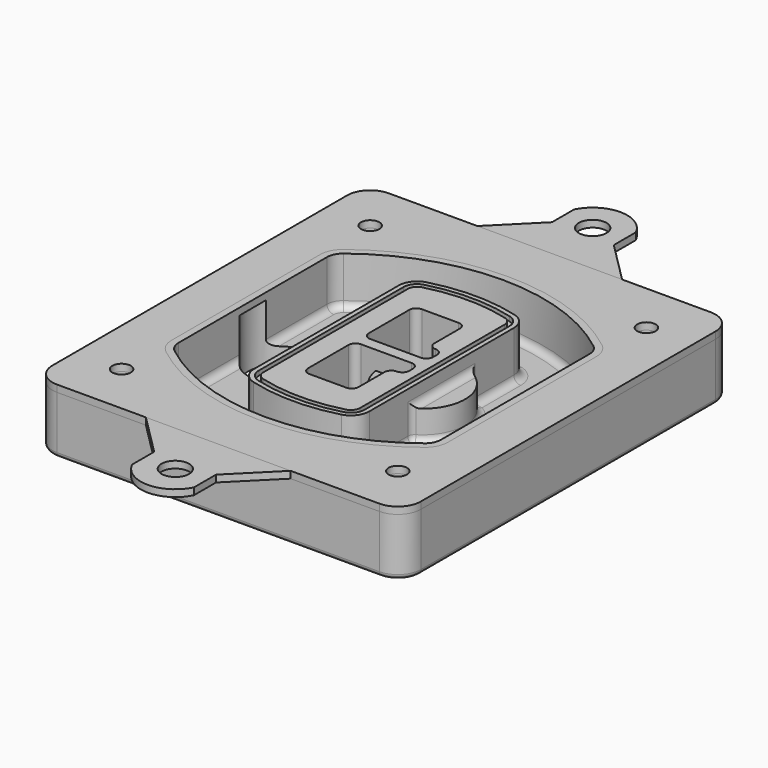
from build123d import *

# Parameters (mm, degrees)
F0_R      = 4
F1_DEPTH  = 25
F2_DEPTH  = 3
F3_DEPTH  = 18
F5_DEPTH  = 21
F6_DEPTH  = 2
F8_DEPTH  = 20
F9_DEPTH  = 16
F10_DEPTH = 25
F7_R      = 6
F7_R_2    = 4
F11_DEPTH = 6
F13_DEPTH = 9
F14_R     = 3
F15_R     = 2
F16_R     = 6
F17_DEPTH = 3
F18_DEPTH = 3


with BuildPart() as f1:
    # F0 (on Top) → F1 (new body)
    with BuildSketch(Plane.XY):
        with BuildLine():
            ThreePointArc((-80, -80), (-77.0710678119, -87.0710678119), (-70, -90))
            Line((-70, -90), (70, -90))
            ThreePointArc((70, -90), (77.0710678119, -87.0710678119), (80, -80))
            Line((80, -80), (80, 80))
            ThreePointArc((80, 80), (77.0710678119, 87.0710678119), (70, 90))
            Line((70, 90), (-70, 90))
            ThreePointArc((-70, 90), (-77.0710678119, 87.0710678119), (-80, 80))
            Line((-80, 80), (-80, -80))
        make_face()
        with Locations((-60, -67.5)):
            Circle(F0_R, mode=Mode.SUBTRACT)
        with Locations((60, -67.5)):
            Circle(F0_R, mode=Mode.SUBTRACT)
        with Locations((-60, 67.5)):
            Circle(F0_R, mode=Mode.SUBTRACT)
        with BuildLine():
            ThreePointArc((-64, 40.2934422872), (-62.5820384798, 46.4328484224), (-58.6153846154, 51.3286200352))
            ThreePointArc((-58.6153846154, 51.3286200352), (0, 71.5), (58.6153846154, 51.3286200352))
            ThreePointArc((58.6153846154, 51.3286200352), (62.5820384798, 46.4328484224), (64, 40.2934422872))
            Line((64, 40.2934422872), (64, -40.2934422872))
            ThreePointArc((64, -40.2934422872), (62.5820384798, -46.4328484224), (58.6153846154, -51.3286200352))
            ThreePointArc((58.6153846154, -51.3286200352), (0, -71.5), (-58.6153846154, -51.3286200352))
            ThreePointArc((-58.6153846154, -51.3286200352), (-62.5820384798, -46.4328484224), (-64, -40.2934422872))
            Line((-64, -40.2934422872), (-64, 40.2934422872))
        make_face(mode=Mode.SUBTRACT)
        with Locations((60, 67.5)):
            Circle(F0_R, mode=Mode.SUBTRACT)
        with BuildLine():
            ThreePointArc((58.6153846154, 51.3286200352), (0, 71.5), (-58.6153846154, 51.3286200352))
            ThreePointArc((-58.6153846154, 51.3286200352), (-62.5820384798, 46.4328484224), (-64, 40.2934422872))
            Line((-64, 40.2934422872), (-64, -40.2934422872))
            ThreePointArc((-64, -40.2934422872), (-62.5820384798, -46.4328484224), (-58.6153846154, -51.3286200352))
            ThreePointArc((-58.6153846154, -51.3286200352), (0, -71.5), (58.6153846154, -51.3286200352))
            ThreePointArc((58.6153846154, -51.3286200352), (62.5820384798, -46.4328484224), (64, -40.2934422872))
            Line((64, -40.2934422872), (64, 40.2934422872))
            ThreePointArc((64, 40.2934422872), (62.5820384798, 46.4328484224), (58.6153846154, 51.3286200352))
        make_face()
        with BuildLine():
            Line((-60, -40.2934422872), (-60, 40.2934422872))
            ThreePointArc((-60, 40.2934422872), (-58.9871703427, 44.6787323838), (-56.1538461538, 48.1757121072))
            ThreePointArc((-56.1538461538, 48.1757121072), (0, 67.5), (56.1538461538, 48.1757121072))
            ThreePointArc((56.1538461538, 48.1757121072), (58.9871703427, 44.6787323838), (60, 40.2934422872))
            Line((60, 40.2934422872), (60, -40.2934422872))
            ThreePointArc((60, -40.2934422872), (58.9871703427, -44.6787323838), (56.1538461538, -48.1757121072))
            ThreePointArc((56.1538461538, -48.1757121072), (0, -67.5), (-56.1538461538, -48.1757121072))
            ThreePointArc((-56.1538461538, -48.1757121072), (-58.9871703427, -44.6787323838), (-60, -40.2934422872))
        make_face(mode=Mode.SUBTRACT)
        with BuildLine():
            ThreePointArc((-56.1538461538, 48.1757121072), (-58.9871703427, 44.6787323838), (-60, 40.2934422872))
            Line((-60, 40.2934422872), (-60, -40.2934422872))
            ThreePointArc((-60, -40.2934422872), (-58.9871703427, -44.6787323838), (-56.1538461538, -48.1757121072))
            ThreePointArc((-56.1538461538, -48.1757121072), (0, -67.5), (56.1538461538, -48.1757121072))
            ThreePointArc((56.1538461538, -48.1757121072), (58.9871703427, -44.6787323838), (60, -40.2934422872))
            Line((60, -40.2934422872), (60, 40.2934422872))
            ThreePointArc((60, 40.2934422872), (58.9871703427, 44.6787323838), (56.1538461538, 48.1757121072))
            ThreePointArc((56.1538461538, 48.1757121072), (0, 67.5), (-56.1538461538, 48.1757121072))
        make_face()
        with BuildLine():
            ThreePointArc((54.3076923077, 45.8110311612), (56.2910192399, 43.3631453548), (57, 40.2934422872))
            Line((57, 40.2934422872), (57, -40.2934422872))
            ThreePointArc((57, -40.2934422872), (56.2910192399, -43.3631453548), (54.3076923077, -45.8110311612))
            ThreePointArc((54.3076923077, -45.8110311612), (0, -64.5), (-54.3076923077, -45.8110311612))
            ThreePointArc((-54.3076923077, -45.8110311612), (-56.2910192399, -43.3631453548), (-57, -40.2934422872))
            Line((-57, -40.2934422872), (-57, 40.2934422872))
            ThreePointArc((-57, 40.2934422872), (-56.2910192399, 43.3631453548), (-54.3076923077, 45.8110311612))
            ThreePointArc((-54.3076923077, 45.8110311612), (0, 64.5), (54.3076923077, 45.8110311612))
        make_face(mode=Mode.SUBTRACT)
        with BuildLine():
            Line((57, -40.2934422872), (57, 40.2934422872))
            ThreePointArc((57, 40.2934422872), (56.2910192399, 43.3631453548), (54.3076923077, 45.8110311612))
            ThreePointArc((54.3076923077, 45.8110311612), (0, 64.5), (-54.3076923077, 45.8110311612))
            ThreePointArc((-54.3076923077, 45.8110311612), (-56.2910192399, 43.3631453548), (-57, 40.2934422872))
            Line((-57, 40.2934422872), (-57, -40.2934422872))
            ThreePointArc((-57, -40.2934422872), (-56.2910192399, -43.3631453548), (-54.3076923077, -45.8110311612))
            ThreePointArc((-54.3076923077, -45.8110311612), (0, -64.5), (54.3076923077, -45.8110311612))
            ThreePointArc((54.3076923077, -45.8110311612), (56.2910192399, -43.3631453548), (57, -40.2934422872))
        make_face()
    extrude(amount=-F1_DEPTH)

    # F0 (on Top) → F2 (join)
    with BuildSketch(Plane.XY):
        with BuildLine():
            ThreePointArc((-56.1538461538, 48.1757121072), (-58.9871703427, 44.6787323838), (-60, 40.2934422872))
            Line((-60, 40.2934422872), (-60, -40.2934422872))
            ThreePointArc((-60, -40.2934422872), (-58.9871703427, -44.6787323838), (-56.1538461538, -48.1757121072))
            ThreePointArc((-56.1538461538, -48.1757121072), (0, -67.5), (56.1538461538, -48.1757121072))
            ThreePointArc((56.1538461538, -48.1757121072), (58.9871703427, -44.6787323838), (60, -40.2934422872))
            Line((60, -40.2934422872), (60, 40.2934422872))
            ThreePointArc((60, 40.2934422872), (58.9871703427, 44.6787323838), (56.1538461538, 48.1757121072))
            ThreePointArc((56.1538461538, 48.1757121072), (0, 67.5), (-56.1538461538, 48.1757121072))
        make_face()
        with BuildLine():
            ThreePointArc((54.3076923077, 45.8110311612), (56.2910192399, 43.3631453548), (57, 40.2934422872))
            Line((57, 40.2934422872), (57, -40.2934422872))
            ThreePointArc((57, -40.2934422872), (56.2910192399, -43.3631453548), (54.3076923077, -45.8110311612))
            ThreePointArc((54.3076923077, -45.8110311612), (0, -64.5), (-54.3076923077, -45.8110311612))
            ThreePointArc((-54.3076923077, -45.8110311612), (-56.2910192399, -43.3631453548), (-57, -40.2934422872))
            Line((-57, -40.2934422872), (-57, 40.2934422872))
            ThreePointArc((-57, 40.2934422872), (-56.2910192399, 43.3631453548), (-54.3076923077, 45.8110311612))
            ThreePointArc((-54.3076923077, 45.8110311612), (0, 64.5), (54.3076923077, 45.8110311612))
        make_face(mode=Mode.SUBTRACT)
    extrude(amount=F2_DEPTH)

    # F0 (on Top) → F3 (cut)
    with BuildSketch(Plane.XY):
        with BuildLine():
            Line((57, -40.2934422872), (57, 40.2934422872))
            ThreePointArc((57, 40.2934422872), (56.2910192399, 43.3631453548), (54.3076923077, 45.8110311612))
            ThreePointArc((54.3076923077, 45.8110311612), (0, 64.5), (-54.3076923077, 45.8110311612))
            ThreePointArc((-54.3076923077, 45.8110311612), (-56.2910192399, 43.3631453548), (-57, 40.2934422872))
            Line((-57, 40.2934422872), (-57, -40.2934422872))
            ThreePointArc((-57, -40.2934422872), (-56.2910192399, -43.3631453548), (-54.3076923077, -45.8110311612))
            ThreePointArc((-54.3076923077, -45.8110311612), (0, -64.5), (54.3076923077, -45.8110311612))
            ThreePointArc((54.3076923077, -45.8110311612), (56.2910192399, -43.3631453548), (57, -40.2934422872))
        make_face()
    extrude(amount=-F3_DEPTH, mode=Mode.SUBTRACT)

    # F4 (on face) → F5 (join, through all)
    with BuildSketch(Plane.XY.offset(3)):
        with BuildLine():
            ThreePointArc((-25, -39.2465276821), (-23.3511545998, -44.1109737193), (-19.0842911877, -46.9702398883))
            ThreePointArc((-19.0842911877, -46.9702398883), (0, -49.5), (19.0842911877, -46.9702398883))
            ThreePointArc((19.0842911877, -46.9702398883), (23.3511545998, -44.1109737193), (25, -39.2465276821))
            Line((25, -39.2465276821), (25, 39.2465276821))
            ThreePointArc((25, 39.2465276821), (23.3511545998, 44.1109737193), (19.0842911877, 46.9702398883))
            ThreePointArc((19.0842911877, 46.9702398883), (0, 49.5), (-19.0842911877, 46.9702398883))
            ThreePointArc((-19.0842911877, 46.9702398883), (-23.3511545998, 44.1109737193), (-25, 39.2465276821))
            Line((-25, 39.2465276821), (-25, -39.2465276821))
        make_face()
        with BuildLine():
            ThreePointArc((18.5632183908, 45.0393118368), (21.7633659499, 42.89486221), (23, 39.2465276821))
            Line((23, 39.2465276821), (23, -39.2465276821))
            ThreePointArc((23, -39.2465276821), (21.7633659499, -42.89486221), (18.5632183908, -45.0393118368))
            ThreePointArc((18.5632183908, -45.0393118368), (0, -47.5), (-18.5632183908, -45.0393118368))
            ThreePointArc((-18.5632183908, -45.0393118368), (-21.7633659499, -42.89486221), (-23, -39.2465276821))
            Line((-23, -39.2465276821), (-23, 39.2465276821))
            ThreePointArc((-23, 39.2465276821), (-21.7633659499, 42.89486221), (-18.5632183908, 45.0393118368))
            ThreePointArc((-18.5632183908, 45.0393118368), (0, 47.5), (18.5632183908, 45.0393118368))
        make_face(mode=Mode.SUBTRACT)
        with BuildLine():
            Line((23, -39.2465276821), (23, 39.2465276821))
            ThreePointArc((23, 39.2465276821), (21.7633659499, 42.89486221), (18.5632183908, 45.0393118368))
            ThreePointArc((18.5632183908, 45.0393118368), (0, 47.5), (-18.5632183908, 45.0393118368))
            ThreePointArc((-18.5632183908, 45.0393118368), (-21.7633659499, 42.89486221), (-23, 39.2465276821))
            Line((-23, 39.2465276821), (-23, -39.2465276821))
            ThreePointArc((-23, -39.2465276821), (-21.7633659499, -42.89486221), (-18.5632183908, -45.0393118368))
            ThreePointArc((-18.5632183908, -45.0393118368), (0, -47.5), (18.5632183908, -45.0393118368))
            ThreePointArc((18.5632183908, -45.0393118368), (21.7633659499, -42.89486221), (23, -39.2465276821))
        make_face()
        with BuildLine():
            ThreePointArc((18.0421455939, 43.1083837852), (20.1755772999, 41.6787507007), (21, 39.2465276821))
            Line((21, 39.2465276821), (21, -39.2465276821))
            ThreePointArc((21, -39.2465276821), (20.1755772999, -41.6787507007), (18.0421455939, -43.1083837852))
            ThreePointArc((18.0421455939, -43.1083837852), (0, -45.5), (-18.0421455939, -43.1083837852))
            ThreePointArc((-18.0421455939, -43.1083837852), (-20.1755772999, -41.6787507007), (-21, -39.2465276821))
            Line((-21, -39.2465276821), (-21, 39.2465276821))
            ThreePointArc((-21, 39.2465276821), (-20.1755772999, 41.6787507007), (-18.0421455939, 43.1083837852))
            ThreePointArc((-18.0421455939, 43.1083837852), (0, 45.5), (18.0421455939, 43.1083837852))
        make_face(mode=Mode.SUBTRACT)
        with BuildLine():
            Line((21, -39.2465276821), (21, 39.2465276821))
            ThreePointArc((21, 39.2465276821), (20.1755772999, 41.6787507007), (18.0421455939, 43.1083837852))
            ThreePointArc((18.0421455939, 43.1083837852), (0, 45.5), (-18.0421455939, 43.1083837852))
            ThreePointArc((-18.0421455939, 43.1083837852), (-20.1755772999, 41.6787507007), (-21, 39.2465276821))
            Line((-21, 39.2465276821), (-21, -39.2465276821))
            ThreePointArc((-21, -39.2465276821), (-20.1755772999, -41.6787507007), (-18.0421455939, -43.1083837852))
            ThreePointArc((-18.0421455939, -43.1083837852), (0, -45.5), (18.0421455939, -43.1083837852))
            ThreePointArc((18.0421455939, -43.1083837852), (20.1755772999, -41.6787507007), (21, -39.2465276821))
        make_face()
        with BuildLine():
            Line((-8, -2.5), (14, -2.5))
            ThreePointArc((14, -2.5), (16.1213203436, -3.3786796564), (17, -5.5))
            Line((17, -5.5), (17, -7.5))
            ThreePointArc((17, -7.5), (16.1213203436, -9.6213203436), (14, -10.5))
            ThreePointArc((14, -10.5), (11.8786796564, -11.3786796564), (11, -13.5))
            Line((11, -13.5), (11, -27.5))
            ThreePointArc((11, -27.5), (10.1213203436, -29.6213203436), (8, -30.5))
            Line((8, -30.5), (-8, -30.5))
            ThreePointArc((-8, -30.5), (-10.1213203436, -29.6213203436), (-11, -27.5))
            Line((-11, -27.5), (-11, -5.5))
            ThreePointArc((-11, -5.5), (-10.1213203436, -3.3786796564), (-8, -2.5))
        make_face(mode=Mode.SUBTRACT)
        with BuildLine():
            ThreePointArc((-8, 2.5), (-10.1213203436, 3.3786796564), (-11, 5.5))
            Line((-11, 5.5), (-11, 27.5))
            ThreePointArc((-11, 27.5), (-10.1213203436, 29.6213203436), (-8, 30.5))
            Line((-8, 30.5), (8, 30.5))
            ThreePointArc((8, 30.5), (10.1213203436, 29.6213203436), (11, 27.5))
            Line((11, 27.5), (11, 13.5))
            ThreePointArc((11, 13.5), (11.8786796564, 11.3786796564), (14, 10.5))
            ThreePointArc((14, 10.5), (16.1213203436, 9.6213203436), (17, 7.5))
            Line((17, 7.5), (17, 5.5))
            ThreePointArc((17, 5.5), (16.1213203436, 3.3786796564), (14, 2.5))
            Line((14, 2.5), (-8, 2.5))
        make_face(mode=Mode.SUBTRACT)
    extrude(amount=-F5_DEPTH)

    # F4 (on face) → F6 (cut)
    with BuildSketch(Plane.XY.offset(3)):
        with BuildLine():
            Line((23, -39.2465276821), (23, 39.2465276821))
            ThreePointArc((23, 39.2465276821), (21.7633659499, 42.89486221), (18.5632183908, 45.0393118368))
            ThreePointArc((18.5632183908, 45.0393118368), (0, 47.5), (-18.5632183908, 45.0393118368))
            ThreePointArc((-18.5632183908, 45.0393118368), (-21.7633659499, 42.89486221), (-23, 39.2465276821))
            Line((-23, 39.2465276821), (-23, -39.2465276821))
            ThreePointArc((-23, -39.2465276821), (-21.7633659499, -42.89486221), (-18.5632183908, -45.0393118368))
            ThreePointArc((-18.5632183908, -45.0393118368), (0, -47.5), (18.5632183908, -45.0393118368))
            ThreePointArc((18.5632183908, -45.0393118368), (21.7633659499, -42.89486221), (23, -39.2465276821))
        make_face()
        with BuildLine():
            ThreePointArc((18.0421455939, 43.1083837852), (20.1755772999, 41.6787507007), (21, 39.2465276821))
            Line((21, 39.2465276821), (21, -39.2465276821))
            ThreePointArc((21, -39.2465276821), (20.1755772999, -41.6787507007), (18.0421455939, -43.1083837852))
            ThreePointArc((18.0421455939, -43.1083837852), (0, -45.5), (-18.0421455939, -43.1083837852))
            ThreePointArc((-18.0421455939, -43.1083837852), (-20.1755772999, -41.6787507007), (-21, -39.2465276821))
            Line((-21, -39.2465276821), (-21, 39.2465276821))
            ThreePointArc((-21, 39.2465276821), (-20.1755772999, 41.6787507007), (-18.0421455939, 43.1083837852))
            ThreePointArc((-18.0421455939, 43.1083837852), (0, 45.5), (18.0421455939, 43.1083837852))
        make_face(mode=Mode.SUBTRACT)
    extrude(amount=-F6_DEPTH, mode=Mode.SUBTRACT)

    # F7 (on face) → F8 (join)
    with BuildSketch(Plane(origin=(0, 0, -25), x_dir=(1, 0, 0), z_dir=(0, 0, -1))):
        with BuildLine():
            ThreePointArc((3.28842436, 0), (16.7567035675, 13.4682792075), (30.224982775, 0))
            Line((30.224982775, 0), (35.224982775, 0))
            ThreePointArc((35.224982775, 0), (16.7567035675, 18.4682792075), (-1.71157564, 0))
            Line((-1.71157564, 0), (3.28842436, 0))
        make_face()
        with BuildLine():
            Line((3.28842436, 0), (30.224982775, 0))
            ThreePointArc((30.224982775, 0), (16.7567035675, 13.4682792075), (3.28842436, 0))
        make_face()
        with BuildLine():
            ThreePointArc((3.28842436, 0), (16.7567035675, -13.4682792075), (30.224982775, 0))
            Line((30.224982775, 0), (3.28842436, 0))
        make_face()
        with BuildLine():
            Line((35.224982775, 0), (30.224982775, 0))
            ThreePointArc((30.224982775, 0), (16.7567035675, -13.4682792075), (3.28842436, 0))
            Line((3.28842436, 0), (-1.71157564, 0))
            ThreePointArc((-1.71157564, 0), (16.7567035675, -18.4682792075), (35.224982775, 0))
        make_face()
    extrude(amount=-F8_DEPTH)

    # F7 (on face) → F9 (cut)
    with BuildSketch(Plane(origin=(0, 0, -25), x_dir=(1, 0, 0), z_dir=(0, 0, -1))):
        with BuildLine():
            Line((3.28842436, 0), (30.224982775, 0))
            ThreePointArc((30.224982775, 0), (16.7567035675, 13.4682792075), (3.28842436, 0))
        make_face()
        with BuildLine():
            ThreePointArc((3.28842436, 0), (16.7567035675, -13.4682792075), (30.224982775, 0))
            Line((30.224982775, 0), (3.28842436, 0))
        make_face()
    extrude(amount=-F9_DEPTH, mode=Mode.SUBTRACT)

    # F7 (on face) → F10 (cut)
    with BuildSketch(Plane(origin=(0, 0, -25), x_dir=(1, 0, 0), z_dir=(0, 0, -1))):
        with BuildLine():
            Line((-59.0318229325, 0), (-32.0952645175, 0))
            ThreePointArc((-32.0952645175, 0), (-45.563543725, 13.4682792075), (-59.0318229325, 0))
        make_face()
        with BuildLine():
            ThreePointArc((-59.0318229325, 0), (-45.563543725, -13.4682792075), (-32.0952645175, 0))
            Line((-32.0952645175, 0), (-59.0318229325, 0))
        make_face()
    extrude(amount=-F10_DEPTH, mode=Mode.SUBTRACT)

    # F7 (on face) → F11 (cut)
    with BuildSketch(Plane(origin=(0, 0, -25), x_dir=(1, 0, 0), z_dir=(0, 0, -1))):
        with Locations((60, -67.5)):
            Circle(F7_R)
        with Locations((60, -67.5)):
            Circle(F7_R_2, mode=Mode.SUBTRACT)
        with Locations((60, -67.5)):
            Circle(F7_R)
        with Locations((60, -67.5)):
            Circle(F7_R_2, mode=Mode.SUBTRACT)
        with Locations((-60, -67.5)):
            Circle(F7_R)
        with Locations((-60, -67.5)):
            Circle(F7_R_2, mode=Mode.SUBTRACT)
        with Locations((-60, -67.5)):
            Circle(F7_R)
        with Locations((-60, -67.5)):
            Circle(F7_R_2, mode=Mode.SUBTRACT)
        with Locations((-60, 67.5)):
            Circle(F7_R)
        with Locations((-60, 67.5)):
            Circle(F7_R_2, mode=Mode.SUBTRACT)
        with Locations((-60, 67.5)):
            Circle(F7_R)
        with Locations((-60, 67.5)):
            Circle(F7_R_2, mode=Mode.SUBTRACT)
        with Locations((60, 67.5)):
            Circle(F7_R)
        with Locations((60, 67.5)):
            Circle(F7_R_2, mode=Mode.SUBTRACT)
        with Locations((60, 67.5)):
            Circle(F7_R)
        with Locations((60, 67.5)):
            Circle(F7_R_2, mode=Mode.SUBTRACT)
    extrude(amount=-F11_DEPTH, mode=Mode.SUBTRACT)

    # F12 (on face) → F13 (cut, through all)
    with BuildSketch(Plane(origin=(0, 0, -9), x_dir=(1, 0, 0), z_dir=(0, 0, -1))):
        with BuildLine():
            Line((11, 13.5), (11, 17.5481537753))
            ThreePointArc((11, 17.5481537753), (2.5696536419, 11.8239143813), (-1.5415842455, 2.5))
            Line((-1.5415842455, 2.5), (3.5224848595, 2.5))
            ThreePointArc((3.5224848595, 2.5), (6.1857188154, 8.3455872281), (11.2536447004, 12.2927168648))
            ThreePointArc((11.2536447004, 12.2927168648), (11.0640958889, 12.8831798879), (11, 13.5))
        make_face()
        with BuildLine():
            ThreePointArc((11.2536447004, -12.2927168648), (6.1857188154, -8.3455872281), (3.5224848595, -2.5))
            Line((3.5224848595, -2.5), (-1.5415842455, -2.5))
            ThreePointArc((-1.5415842455, -2.5), (2.5696536419, -11.8239143813), (11, -17.5481537753))
            Line((11, -17.5481537753), (11, -13.5))
            ThreePointArc((11, -13.5), (11.0640958889, -12.8831798879), (11.2536447004, -12.2927168648))
        make_face()
        with BuildLine():
            ThreePointArc((11.2536447004, 12.2927168648), (6.1857188154, 8.3455872281), (3.5224848595, 2.5))
            Line((3.5224848595, 2.5), (14, 2.5))
            ThreePointArc((14, 2.5), (16.1213203436, 3.3786796564), (17, 5.5))
            Line((17, 5.5), (17, 7.5))
            ThreePointArc((17, 7.5), (16.1213203436, 9.6213203436), (14, 10.5))
            ThreePointArc((14, 10.5), (12.3601599782, 10.9878446101), (11.2536447004, 12.2927168648))
        make_face()
        with BuildLine():
            Line((14, -2.5), (3.5224848595, -2.5))
            ThreePointArc((3.5224848595, -2.5), (6.1857188154, -8.3455872281), (11.2536447004, -12.2927168648))
            ThreePointArc((11.2536447004, -12.2927168648), (12.3601599782, -10.9878446101), (14, -10.5))
            ThreePointArc((14, -10.5), (16.1213203436, -9.6213203436), (17, -7.5))
            Line((17, -7.5), (17, -5.5))
            ThreePointArc((17, -5.5), (16.1213203436, -3.3786796564), (14, -2.5))
        make_face()
    extrude(amount=F13_DEPTH, mode=Mode.SUBTRACT)

    # F14
    f14_edges = [f1.edges().sort_by_distance(p)[0] for p in [
        (-57, -23.703476, -18),
        (-57, 23.703476, -18),
        (25, 0, -5),
        (25, 16.526506, -11.5),
        (25, -16.526506, -11.5),
        (25, -27.886517, -18),
        (35.224983, 0, -18),
    ]]
    fillet(f14_edges, radius=F14_R)

    # F15
    f15_edges = [f1.edges().sort_by_distance(p)[0] for p in [
        (0, -90, -25),
    ]]
    fillet(f15_edges, radius=F15_R)


with BuildPart() as f17:
    # F16 (on face) → F17 (new body, through all)
    with BuildSketch(Plane.XY):
        with BuildLine():
            Line((13.4260814795, 108), (13.4260814795, 120))
            ThreePointArc((13.4260814795, 120), (0, 128.3111782722), (-13.4260814795, 120))
            Line((-13.4260814795, 120), (-13.4260814795, 108))
            Line((-13.4260814795, 108), (-31.4260814795, 90))
            Line((-31.4260814795, 90), (31.4260814795, 90))
            Line((31.4260814795, 90), (13.4260814795, 108))
        make_face()
        with Locations((0, 113.3111782722)):
            Circle(F16_R, mode=Mode.SUBTRACT)
    extrude(amount=F17_DEPTH)


with BuildPart() as f17b:
    # F16 (on face) → F17, piece 2 (new body, through all)
    with BuildSketch(Plane.XY):
        with BuildLine():
            Line((13.4260814795, -108), (31.4260814795, -90))
            Line((31.4260814795, -90), (-31.4260814795, -90))
            Line((-31.4260814795, -90), (-13.4260814795, -108))
            Line((-13.4260814795, -108), (-13.4260814795, -120))
            ThreePointArc((-13.4260814795, -120), (0, -128.3111782722), (13.4260814795, -120))
            Line((13.4260814795, -120), (13.4260814795, -108))
        make_face()
        with Locations((0, -113.3111782722)):
            Circle(F16_R, mode=Mode.SUBTRACT)
    extrude(amount=F17_DEPTH)


with BuildPart() as f18:
    # F18 (new, through all): a face of the model
    f18_faces = [f1.part.faces().sort_by_distance(p)[0] for p in [
        (-75.3681291753, -85.3681291753, 0),
    ]]
    extrude(f18_faces, amount=F18_DEPTH)


solid = Compound([f1.part, f17.part, f17b.part, f18.part])
